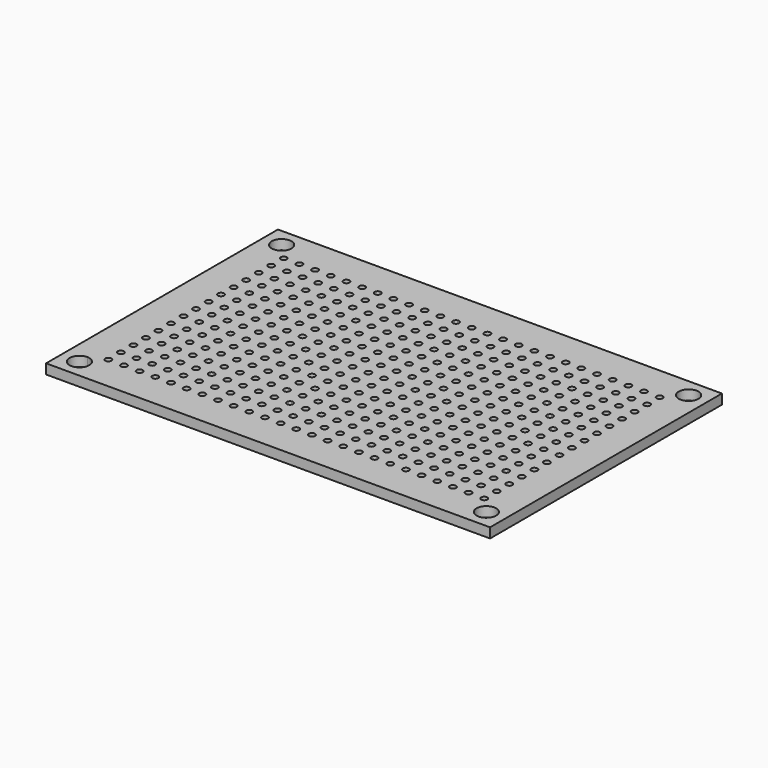
from build123d import *

# Parameters (mm, degrees)
F0_R     = 1.6
F0_R_2   = 0.5
F2_DEPTH = 3
F1_W     = 72
F1_H     = 47
F4_DEPTH = 1.6


with BuildPart() as f2:
    # F0 (on Top) → F2 (new body)
    with BuildSketch(Plane.XY):
        with BuildLine():
            ThreePointArc((-33.09008, -20.17), (-34.221451, -22.901371), (-31.49008, -21.77))
            ThreePointArc((-31.49008, -21.77), (-31.958709, -20.638629), (-33.09008, -20.17))
        make_face()
        with Locations((32.90992, -21.77)):
            Circle(F0_R)
        with Locations((32.90992, 19.23)):
            Circle(F0_R)
        with Locations((-33.09008, 19.23)):
            Circle(F0_R)
        with Locations((-30.57008, -19.05)):
            Circle(F0_R_2)
        with Locations((-28.03008, -19.05)):
            Circle(F0_R_2)
        with Locations((-25.49008, -19.05)):
            Circle(F0_R_2)
        with Locations((-22.95008, -19.05)):
            Circle(F0_R_2)
        with Locations((-20.41008, -19.05)):
            Circle(F0_R_2)
        with Locations((-17.87008, -19.05)):
            Circle(F0_R_2)
        with Locations((-15.33008, -19.05)):
            Circle(F0_R_2)
        with Locations((-12.79008, -19.05)):
            Circle(F0_R_2)
        with Locations((-10.25008, -19.05)):
            Circle(F0_R_2)
        with Locations((-7.71008, -19.05)):
            Circle(F0_R_2)
        with Locations((-5.17008, -19.05)):
            Circle(F0_R_2)
        with Locations((-2.63008, -19.05)):
            Circle(F0_R_2)
        with Locations((-0.09008, -19.05)):
            Circle(F0_R_2)
        with Locations((2.44992, -19.05)):
            Circle(F0_R_2)
        with Locations((4.98992, -19.05)):
            Circle(F0_R_2)
        with Locations((7.52992, -19.05)):
            Circle(F0_R_2)
        with Locations((10.06992, -19.05)):
            Circle(F0_R_2)
        with Locations((12.60992, -19.05)):
            Circle(F0_R_2)
        with Locations((15.14992, -19.05)):
            Circle(F0_R_2)
        with Locations((17.68992, -19.05)):
            Circle(F0_R_2)
        with Locations((20.22992, -19.05)):
            Circle(F0_R_2)
        with Locations((22.76992, -19.05)):
            Circle(F0_R_2)
        with Locations((25.30992, -19.05)):
            Circle(F0_R_2)
        with Locations((27.84992, -19.05)):
            Circle(F0_R_2)
        with Locations((30.38992, -19.05)):
            Circle(F0_R_2)
        with Locations((-30.57008, -16.51)):
            Circle(F0_R_2)
        with Locations((-30.57008, -13.97)):
            Circle(F0_R_2)
        with Locations((-30.57008, -11.43)):
            Circle(F0_R_2)
        with Locations((-30.57008, -8.89)):
            Circle(F0_R_2)
        with Locations((-30.57008, -6.35)):
            Circle(F0_R_2)
        with Locations((-30.57008, -3.81)):
            Circle(F0_R_2)
        with Locations((-30.57008, -1.27)):
            Circle(F0_R_2)
        with Locations((-30.57008, 1.27)):
            Circle(F0_R_2)
        with Locations((-30.57008, 3.81)):
            Circle(F0_R_2)
        with Locations((-30.57008, 6.35)):
            Circle(F0_R_2)
        with Locations((-30.57008, 8.89)):
            Circle(F0_R_2)
        with Locations((-30.57008, 11.43)):
            Circle(F0_R_2)
        with Locations((-30.57008, 13.97)):
            Circle(F0_R_2)
        with Locations((-30.57008, 16.51)):
            Circle(F0_R_2)
        with Locations((25.30992, -16.51)):
            Circle(F0_R_2)
        with Locations((30.38992, -16.51)):
            Circle(F0_R_2)
        with Locations((20.22992, -16.51)):
            Circle(F0_R_2)
        with Locations((22.76992, -16.51)):
            Circle(F0_R_2)
        with Locations((-7.71008, -16.51)):
            Circle(F0_R_2)
        with Locations((-15.33008, -16.51)):
            Circle(F0_R_2)
        with Locations((-5.17008, -16.51)):
            Circle(F0_R_2)
        with Locations((27.84992, -16.51)):
            Circle(F0_R_2)
        with Locations((12.60992, -16.51)):
            Circle(F0_R_2)
        with Locations((4.98992, -16.51)):
            Circle(F0_R_2)
        with Locations((-10.25008, -16.51)):
            Circle(F0_R_2)
        with Locations((-0.09008, -16.51)):
            Circle(F0_R_2)
        with Locations((10.06992, -16.51)):
            Circle(F0_R_2)
        with Locations((7.52992, -16.51)):
            Circle(F0_R_2)
        with Locations((17.68992, -16.51)):
            Circle(F0_R_2)
        with Locations((-2.63008, -16.51)):
            Circle(F0_R_2)
        with Locations((15.14992, -16.51)):
            Circle(F0_R_2)
        with Locations((-12.79008, -16.51)):
            Circle(F0_R_2)
        with Locations((2.44992, -16.51)):
            Circle(F0_R_2)
        with Locations((-22.95008, -16.51)):
            Circle(F0_R_2)
        with Locations((-20.41008, -16.51)):
            Circle(F0_R_2)
        with Locations((-28.03008, -16.51)):
            Circle(F0_R_2)
        with Locations((-25.49008, -16.51)):
            Circle(F0_R_2)
        with Locations((-17.87008, -16.51)):
            Circle(F0_R_2)
        with Locations((25.30992, -13.97)):
            Circle(F0_R_2)
        with Locations((30.38992, -13.97)):
            Circle(F0_R_2)
        with Locations((20.22992, -13.97)):
            Circle(F0_R_2)
        with Locations((22.76992, -13.97)):
            Circle(F0_R_2)
        with Locations((-7.71008, -13.97)):
            Circle(F0_R_2)
        with Locations((-15.33008, -13.97)):
            Circle(F0_R_2)
        with Locations((-5.17008, -13.97)):
            Circle(F0_R_2)
        with Locations((27.84992, -13.97)):
            Circle(F0_R_2)
        with Locations((12.60992, -13.97)):
            Circle(F0_R_2)
        with Locations((4.98992, -13.97)):
            Circle(F0_R_2)
        with Locations((-10.25008, -13.97)):
            Circle(F0_R_2)
        with Locations((-0.09008, -13.97)):
            Circle(F0_R_2)
        with Locations((10.06992, -13.97)):
            Circle(F0_R_2)
        with Locations((7.52992, -13.97)):
            Circle(F0_R_2)
        with Locations((17.68992, -13.97)):
            Circle(F0_R_2)
        with Locations((-2.63008, -13.97)):
            Circle(F0_R_2)
        with Locations((15.14992, -13.97)):
            Circle(F0_R_2)
        with Locations((-12.79008, -13.97)):
            Circle(F0_R_2)
        with Locations((2.44992, -13.97)):
            Circle(F0_R_2)
        with Locations((-22.95008, -13.97)):
            Circle(F0_R_2)
        with Locations((-20.41008, -13.97)):
            Circle(F0_R_2)
        with Locations((-28.03008, -13.97)):
            Circle(F0_R_2)
        with Locations((-25.49008, -13.97)):
            Circle(F0_R_2)
        with Locations((-17.87008, -13.97)):
            Circle(F0_R_2)
        with Locations((25.30992, -11.43)):
            Circle(F0_R_2)
        with Locations((30.38992, -11.43)):
            Circle(F0_R_2)
        with Locations((20.22992, -11.43)):
            Circle(F0_R_2)
        with Locations((22.76992, -11.43)):
            Circle(F0_R_2)
        with Locations((-7.71008, -11.43)):
            Circle(F0_R_2)
        with Locations((-15.33008, -11.43)):
            Circle(F0_R_2)
        with Locations((-5.17008, -11.43)):
            Circle(F0_R_2)
        with Locations((27.84992, -11.43)):
            Circle(F0_R_2)
        with Locations((12.60992, -11.43)):
            Circle(F0_R_2)
        with Locations((4.98992, -11.43)):
            Circle(F0_R_2)
        with Locations((-10.25008, -11.43)):
            Circle(F0_R_2)
        with Locations((-0.09008, -11.43)):
            Circle(F0_R_2)
        with Locations((10.06992, -11.43)):
            Circle(F0_R_2)
        with Locations((7.52992, -11.43)):
            Circle(F0_R_2)
        with Locations((17.68992, -11.43)):
            Circle(F0_R_2)
        with Locations((-2.63008, -11.43)):
            Circle(F0_R_2)
        with Locations((15.14992, -11.43)):
            Circle(F0_R_2)
        with Locations((-12.79008, -11.43)):
            Circle(F0_R_2)
        with Locations((2.44992, -11.43)):
            Circle(F0_R_2)
        with Locations((-22.95008, -11.43)):
            Circle(F0_R_2)
        with Locations((-20.41008, -11.43)):
            Circle(F0_R_2)
        with Locations((-28.03008, -11.43)):
            Circle(F0_R_2)
        with Locations((-25.49008, -11.43)):
            Circle(F0_R_2)
        with Locations((-17.87008, -11.43)):
            Circle(F0_R_2)
        with Locations((25.30992, -8.89)):
            Circle(F0_R_2)
        with Locations((30.38992, -8.89)):
            Circle(F0_R_2)
        with Locations((20.22992, -8.89)):
            Circle(F0_R_2)
        with Locations((22.76992, -8.89)):
            Circle(F0_R_2)
        with Locations((-7.71008, -8.89)):
            Circle(F0_R_2)
        with Locations((-15.33008, -8.89)):
            Circle(F0_R_2)
        with Locations((-5.17008, -8.89)):
            Circle(F0_R_2)
        with Locations((27.84992, -8.89)):
            Circle(F0_R_2)
        with Locations((12.60992, -8.89)):
            Circle(F0_R_2)
        with Locations((4.98992, -8.89)):
            Circle(F0_R_2)
        with Locations((-10.25008, -8.89)):
            Circle(F0_R_2)
        with Locations((-0.09008, -8.89)):
            Circle(F0_R_2)
        with Locations((10.06992, -8.89)):
            Circle(F0_R_2)
        with Locations((7.52992, -8.89)):
            Circle(F0_R_2)
        with Locations((17.68992, -8.89)):
            Circle(F0_R_2)
        with Locations((-2.63008, -8.89)):
            Circle(F0_R_2)
        with Locations((15.14992, -8.89)):
            Circle(F0_R_2)
        with Locations((-12.79008, -8.89)):
            Circle(F0_R_2)
        with Locations((2.44992, -8.89)):
            Circle(F0_R_2)
        with Locations((-22.95008, -8.89)):
            Circle(F0_R_2)
        with Locations((-20.41008, -8.89)):
            Circle(F0_R_2)
        with Locations((-28.03008, -8.89)):
            Circle(F0_R_2)
        with Locations((-25.49008, -8.89)):
            Circle(F0_R_2)
        with Locations((-17.87008, -8.89)):
            Circle(F0_R_2)
        with Locations((25.30992, -6.35)):
            Circle(F0_R_2)
        with Locations((30.38992, -6.35)):
            Circle(F0_R_2)
        with Locations((20.22992, -6.35)):
            Circle(F0_R_2)
        with Locations((22.76992, -6.35)):
            Circle(F0_R_2)
        with Locations((-7.71008, -6.35)):
            Circle(F0_R_2)
        with Locations((-15.33008, -6.35)):
            Circle(F0_R_2)
        with Locations((-5.17008, -6.35)):
            Circle(F0_R_2)
        with Locations((27.84992, -6.35)):
            Circle(F0_R_2)
        with Locations((12.60992, -6.35)):
            Circle(F0_R_2)
        with Locations((4.98992, -6.35)):
            Circle(F0_R_2)
        with Locations((-10.25008, -6.35)):
            Circle(F0_R_2)
        with Locations((-0.09008, -6.35)):
            Circle(F0_R_2)
        with Locations((10.06992, -6.35)):
            Circle(F0_R_2)
        with Locations((7.52992, -6.35)):
            Circle(F0_R_2)
        with Locations((17.68992, -6.35)):
            Circle(F0_R_2)
        with Locations((-2.63008, -6.35)):
            Circle(F0_R_2)
        with Locations((15.14992, -6.35)):
            Circle(F0_R_2)
        with Locations((-12.79008, -6.35)):
            Circle(F0_R_2)
        with Locations((2.44992, -6.35)):
            Circle(F0_R_2)
        with Locations((-22.95008, -6.35)):
            Circle(F0_R_2)
        with Locations((-20.41008, -6.35)):
            Circle(F0_R_2)
        with Locations((-28.03008, -6.35)):
            Circle(F0_R_2)
        with Locations((-25.49008, -6.35)):
            Circle(F0_R_2)
        with Locations((-17.87008, -6.35)):
            Circle(F0_R_2)
        with Locations((25.30992, -3.81)):
            Circle(F0_R_2)
        with Locations((30.38992, -3.81)):
            Circle(F0_R_2)
        with Locations((20.22992, -3.81)):
            Circle(F0_R_2)
        with Locations((22.76992, -3.81)):
            Circle(F0_R_2)
        with Locations((-7.71008, -3.81)):
            Circle(F0_R_2)
        with Locations((-15.33008, -3.81)):
            Circle(F0_R_2)
        with Locations((-5.17008, -3.81)):
            Circle(F0_R_2)
        with Locations((27.84992, -3.81)):
            Circle(F0_R_2)
        with Locations((12.60992, -3.81)):
            Circle(F0_R_2)
        with Locations((4.98992, -3.81)):
            Circle(F0_R_2)
        with Locations((-10.25008, -3.81)):
            Circle(F0_R_2)
        with Locations((-0.09008, -3.81)):
            Circle(F0_R_2)
        with Locations((10.06992, -3.81)):
            Circle(F0_R_2)
        with Locations((7.52992, -3.81)):
            Circle(F0_R_2)
        with Locations((17.68992, -3.81)):
            Circle(F0_R_2)
        with Locations((-2.63008, -3.81)):
            Circle(F0_R_2)
        with Locations((15.14992, -3.81)):
            Circle(F0_R_2)
        with Locations((-12.79008, -3.81)):
            Circle(F0_R_2)
        with Locations((2.44992, -3.81)):
            Circle(F0_R_2)
        with Locations((-22.95008, -3.81)):
            Circle(F0_R_2)
        with Locations((-20.41008, -3.81)):
            Circle(F0_R_2)
        with Locations((-28.03008, -3.81)):
            Circle(F0_R_2)
        with Locations((-25.49008, -3.81)):
            Circle(F0_R_2)
        with Locations((-17.87008, -3.81)):
            Circle(F0_R_2)
        with Locations((25.30992, -1.27)):
            Circle(F0_R_2)
        with Locations((30.38992, -1.27)):
            Circle(F0_R_2)
        with Locations((20.22992, -1.27)):
            Circle(F0_R_2)
        with Locations((22.76992, -1.27)):
            Circle(F0_R_2)
        with Locations((-7.71008, -1.27)):
            Circle(F0_R_2)
        with Locations((-15.33008, -1.27)):
            Circle(F0_R_2)
        with Locations((-5.17008, -1.27)):
            Circle(F0_R_2)
        with Locations((27.84992, -1.27)):
            Circle(F0_R_2)
        with Locations((12.60992, -1.27)):
            Circle(F0_R_2)
        with Locations((4.98992, -1.27)):
            Circle(F0_R_2)
        with Locations((-10.25008, -1.27)):
            Circle(F0_R_2)
        with Locations((-0.09008, -1.27)):
            Circle(F0_R_2)
        with Locations((10.06992, -1.27)):
            Circle(F0_R_2)
        with Locations((7.52992, -1.27)):
            Circle(F0_R_2)
        with Locations((17.68992, -1.27)):
            Circle(F0_R_2)
        with Locations((-2.63008, -1.27)):
            Circle(F0_R_2)
        with Locations((15.14992, -1.27)):
            Circle(F0_R_2)
        with Locations((-12.79008, -1.27)):
            Circle(F0_R_2)
        with Locations((2.44992, -1.27)):
            Circle(F0_R_2)
        with Locations((-22.95008, -1.27)):
            Circle(F0_R_2)
        with Locations((-20.41008, -1.27)):
            Circle(F0_R_2)
        with Locations((-28.03008, -1.27)):
            Circle(F0_R_2)
        with Locations((-25.49008, -1.27)):
            Circle(F0_R_2)
        with Locations((-17.87008, -1.27)):
            Circle(F0_R_2)
        with Locations((25.30992, 1.27)):
            Circle(F0_R_2)
        with Locations((30.38992, 1.27)):
            Circle(F0_R_2)
        with Locations((20.22992, 1.27)):
            Circle(F0_R_2)
        with Locations((22.76992, 1.27)):
            Circle(F0_R_2)
        with Locations((-7.71008, 1.27)):
            Circle(F0_R_2)
        with Locations((-15.33008, 1.27)):
            Circle(F0_R_2)
        with Locations((-5.17008, 1.27)):
            Circle(F0_R_2)
        with Locations((27.84992, 1.27)):
            Circle(F0_R_2)
        with Locations((12.60992, 1.27)):
            Circle(F0_R_2)
        with Locations((4.98992, 1.27)):
            Circle(F0_R_2)
        with Locations((-10.25008, 1.27)):
            Circle(F0_R_2)
        with Locations((-0.09008, 1.27)):
            Circle(F0_R_2)
        with Locations((10.06992, 1.27)):
            Circle(F0_R_2)
        with Locations((7.52992, 1.27)):
            Circle(F0_R_2)
        with Locations((17.68992, 1.27)):
            Circle(F0_R_2)
        with Locations((-2.63008, 1.27)):
            Circle(F0_R_2)
        with Locations((15.14992, 1.27)):
            Circle(F0_R_2)
        with Locations((-12.79008, 1.27)):
            Circle(F0_R_2)
        with Locations((2.44992, 1.27)):
            Circle(F0_R_2)
        with Locations((-22.95008, 1.27)):
            Circle(F0_R_2)
        with Locations((-20.41008, 1.27)):
            Circle(F0_R_2)
        with Locations((-28.03008, 1.27)):
            Circle(F0_R_2)
        with Locations((-25.49008, 1.27)):
            Circle(F0_R_2)
        with Locations((-17.87008, 1.27)):
            Circle(F0_R_2)
        with Locations((25.30992, 3.81)):
            Circle(F0_R_2)
        with Locations((30.38992, 3.81)):
            Circle(F0_R_2)
        with Locations((20.22992, 3.81)):
            Circle(F0_R_2)
        with Locations((22.76992, 3.81)):
            Circle(F0_R_2)
        with Locations((-7.71008, 3.81)):
            Circle(F0_R_2)
        with Locations((-15.33008, 3.81)):
            Circle(F0_R_2)
        with Locations((-5.17008, 3.81)):
            Circle(F0_R_2)
        with Locations((27.84992, 3.81)):
            Circle(F0_R_2)
        with Locations((12.60992, 3.81)):
            Circle(F0_R_2)
        with Locations((4.98992, 3.81)):
            Circle(F0_R_2)
        with Locations((-10.25008, 3.81)):
            Circle(F0_R_2)
        with Locations((-0.09008, 3.81)):
            Circle(F0_R_2)
        with Locations((10.06992, 3.81)):
            Circle(F0_R_2)
        with Locations((7.52992, 3.81)):
            Circle(F0_R_2)
        with Locations((17.68992, 3.81)):
            Circle(F0_R_2)
        with Locations((-2.63008, 3.81)):
            Circle(F0_R_2)
        with Locations((15.14992, 3.81)):
            Circle(F0_R_2)
        with Locations((-12.79008, 3.81)):
            Circle(F0_R_2)
        with Locations((2.44992, 3.81)):
            Circle(F0_R_2)
        with Locations((-22.95008, 3.81)):
            Circle(F0_R_2)
        with Locations((-20.41008, 3.81)):
            Circle(F0_R_2)
        with Locations((-28.03008, 3.81)):
            Circle(F0_R_2)
        with Locations((-25.49008, 3.81)):
            Circle(F0_R_2)
        with Locations((-17.87008, 3.81)):
            Circle(F0_R_2)
        with Locations((25.30992, 6.35)):
            Circle(F0_R_2)
        with Locations((30.38992, 6.35)):
            Circle(F0_R_2)
        with Locations((20.22992, 6.35)):
            Circle(F0_R_2)
        with Locations((22.76992, 6.35)):
            Circle(F0_R_2)
        with Locations((-7.71008, 6.35)):
            Circle(F0_R_2)
        with Locations((-15.33008, 6.35)):
            Circle(F0_R_2)
        with Locations((-5.17008, 6.35)):
            Circle(F0_R_2)
        with Locations((27.84992, 6.35)):
            Circle(F0_R_2)
        with Locations((12.60992, 6.35)):
            Circle(F0_R_2)
        with Locations((4.98992, 6.35)):
            Circle(F0_R_2)
        with Locations((-10.25008, 6.35)):
            Circle(F0_R_2)
        with Locations((-0.09008, 6.35)):
            Circle(F0_R_2)
        with Locations((10.06992, 6.35)):
            Circle(F0_R_2)
        with Locations((7.52992, 6.35)):
            Circle(F0_R_2)
        with Locations((17.68992, 6.35)):
            Circle(F0_R_2)
        with Locations((-2.63008, 6.35)):
            Circle(F0_R_2)
        with Locations((15.14992, 6.35)):
            Circle(F0_R_2)
        with Locations((-12.79008, 6.35)):
            Circle(F0_R_2)
        with Locations((2.44992, 6.35)):
            Circle(F0_R_2)
        with Locations((-22.95008, 6.35)):
            Circle(F0_R_2)
        with Locations((-20.41008, 6.35)):
            Circle(F0_R_2)
        with Locations((-28.03008, 6.35)):
            Circle(F0_R_2)
        with Locations((-25.49008, 6.35)):
            Circle(F0_R_2)
        with Locations((-17.87008, 6.35)):
            Circle(F0_R_2)
        with Locations((25.30992, 8.89)):
            Circle(F0_R_2)
        with Locations((30.38992, 8.89)):
            Circle(F0_R_2)
        with Locations((20.22992, 8.89)):
            Circle(F0_R_2)
        with Locations((22.76992, 8.89)):
            Circle(F0_R_2)
        with Locations((-7.71008, 8.89)):
            Circle(F0_R_2)
        with Locations((-15.33008, 8.89)):
            Circle(F0_R_2)
        with Locations((-5.17008, 8.89)):
            Circle(F0_R_2)
        with Locations((27.84992, 8.89)):
            Circle(F0_R_2)
        with Locations((12.60992, 8.89)):
            Circle(F0_R_2)
        with Locations((4.98992, 8.89)):
            Circle(F0_R_2)
        with Locations((-10.25008, 8.89)):
            Circle(F0_R_2)
        with Locations((-0.09008, 8.89)):
            Circle(F0_R_2)
        with Locations((10.06992, 8.89)):
            Circle(F0_R_2)
        with Locations((7.52992, 8.89)):
            Circle(F0_R_2)
        with Locations((17.68992, 8.89)):
            Circle(F0_R_2)
        with Locations((-2.63008, 8.89)):
            Circle(F0_R_2)
        with Locations((15.14992, 8.89)):
            Circle(F0_R_2)
        with Locations((-12.79008, 8.89)):
            Circle(F0_R_2)
        with Locations((2.44992, 8.89)):
            Circle(F0_R_2)
        with Locations((-22.95008, 8.89)):
            Circle(F0_R_2)
        with Locations((-20.41008, 8.89)):
            Circle(F0_R_2)
        with Locations((-28.03008, 8.89)):
            Circle(F0_R_2)
        with Locations((-25.49008, 8.89)):
            Circle(F0_R_2)
        with Locations((-17.87008, 8.89)):
            Circle(F0_R_2)
        with Locations((25.30992, 11.43)):
            Circle(F0_R_2)
        with Locations((30.38992, 11.43)):
            Circle(F0_R_2)
        with Locations((20.22992, 11.43)):
            Circle(F0_R_2)
        with Locations((22.76992, 11.43)):
            Circle(F0_R_2)
        with Locations((-7.71008, 11.43)):
            Circle(F0_R_2)
        with Locations((-15.33008, 11.43)):
            Circle(F0_R_2)
        with Locations((-5.17008, 11.43)):
            Circle(F0_R_2)
        with Locations((27.84992, 11.43)):
            Circle(F0_R_2)
        with Locations((12.60992, 11.43)):
            Circle(F0_R_2)
        with Locations((4.98992, 11.43)):
            Circle(F0_R_2)
        with Locations((-10.25008, 11.43)):
            Circle(F0_R_2)
        with Locations((-0.09008, 11.43)):
            Circle(F0_R_2)
        with Locations((10.06992, 11.43)):
            Circle(F0_R_2)
        with Locations((7.52992, 11.43)):
            Circle(F0_R_2)
        with Locations((17.68992, 11.43)):
            Circle(F0_R_2)
        with Locations((-2.63008, 11.43)):
            Circle(F0_R_2)
        with Locations((15.14992, 11.43)):
            Circle(F0_R_2)
        with Locations((-12.79008, 11.43)):
            Circle(F0_R_2)
        with Locations((2.44992, 11.43)):
            Circle(F0_R_2)
        with Locations((-22.95008, 11.43)):
            Circle(F0_R_2)
        with Locations((-20.41008, 11.43)):
            Circle(F0_R_2)
        with Locations((-28.03008, 11.43)):
            Circle(F0_R_2)
        with Locations((-25.49008, 11.43)):
            Circle(F0_R_2)
        with Locations((-17.87008, 11.43)):
            Circle(F0_R_2)
        with Locations((25.30992, 13.97)):
            Circle(F0_R_2)
        with Locations((30.38992, 13.97)):
            Circle(F0_R_2)
        with Locations((20.22992, 13.97)):
            Circle(F0_R_2)
        with Locations((22.76992, 13.97)):
            Circle(F0_R_2)
        with Locations((-7.71008, 13.97)):
            Circle(F0_R_2)
        with Locations((-15.33008, 13.97)):
            Circle(F0_R_2)
        with Locations((-5.17008, 13.97)):
            Circle(F0_R_2)
        with Locations((27.84992, 13.97)):
            Circle(F0_R_2)
        with Locations((12.60992, 13.97)):
            Circle(F0_R_2)
        with Locations((4.98992, 13.97)):
            Circle(F0_R_2)
        with Locations((-10.25008, 13.97)):
            Circle(F0_R_2)
        with Locations((-0.09008, 13.97)):
            Circle(F0_R_2)
        with Locations((10.06992, 13.97)):
            Circle(F0_R_2)
        with Locations((7.52992, 13.97)):
            Circle(F0_R_2)
        with Locations((17.68992, 13.97)):
            Circle(F0_R_2)
        with Locations((-2.63008, 13.97)):
            Circle(F0_R_2)
        with Locations((15.14992, 13.97)):
            Circle(F0_R_2)
        with Locations((-12.79008, 13.97)):
            Circle(F0_R_2)
        with Locations((2.44992, 13.97)):
            Circle(F0_R_2)
        with Locations((-22.95008, 13.97)):
            Circle(F0_R_2)
        with Locations((-20.41008, 13.97)):
            Circle(F0_R_2)
        with Locations((-28.03008, 13.97)):
            Circle(F0_R_2)
        with Locations((-25.49008, 13.97)):
            Circle(F0_R_2)
        with Locations((-17.87008, 13.97)):
            Circle(F0_R_2)
        with Locations((25.30992, 16.51)):
            Circle(F0_R_2)
        with Locations((30.38992, 16.51)):
            Circle(F0_R_2)
        with Locations((20.22992, 16.51)):
            Circle(F0_R_2)
        with Locations((22.76992, 16.51)):
            Circle(F0_R_2)
        with Locations((-7.71008, 16.51)):
            Circle(F0_R_2)
        with Locations((-15.33008, 16.51)):
            Circle(F0_R_2)
        with Locations((-5.17008, 16.51)):
            Circle(F0_R_2)
        with Locations((27.84992, 16.51)):
            Circle(F0_R_2)
        with Locations((12.60992, 16.51)):
            Circle(F0_R_2)
        with Locations((4.98992, 16.51)):
            Circle(F0_R_2)
        with Locations((-10.25008, 16.51)):
            Circle(F0_R_2)
        with Locations((-0.09008, 16.51)):
            Circle(F0_R_2)
        with Locations((10.06992, 16.51)):
            Circle(F0_R_2)
        with Locations((7.52992, 16.51)):
            Circle(F0_R_2)
        with Locations((17.68992, 16.51)):
            Circle(F0_R_2)
        with Locations((-2.63008, 16.51)):
            Circle(F0_R_2)
        with Locations((15.14992, 16.51)):
            Circle(F0_R_2)
        with Locations((-12.79008, 16.51)):
            Circle(F0_R_2)
        with Locations((2.44992, 16.51)):
            Circle(F0_R_2)
        with Locations((-22.95008, 16.51)):
            Circle(F0_R_2)
        with Locations((-20.41008, 16.51)):
            Circle(F0_R_2)
        with Locations((-28.03008, 16.51)):
            Circle(F0_R_2)
        with Locations((-25.49008, 16.51)):
            Circle(F0_R_2)
        with Locations((-17.87008, 16.51)):
            Circle(F0_R_2)
    extrude(amount=F2_DEPTH)


with BuildPart() as f2_1:
    # F3: moved
    add(f2.part.moved(Location((0, 0, -1))))


with BuildPart() as f4:
    # F1 (on Top) → F4 (new body)
    with BuildSketch(Plane.XY):
        with Locations((-0.09008, -1.27)):
            Rectangle(F1_W, F1_H)
    extrude(amount=F4_DEPTH)

    # F5: cut F2
    add(f2_1.part, mode=Mode.SUBTRACT)


solid = f4.part
